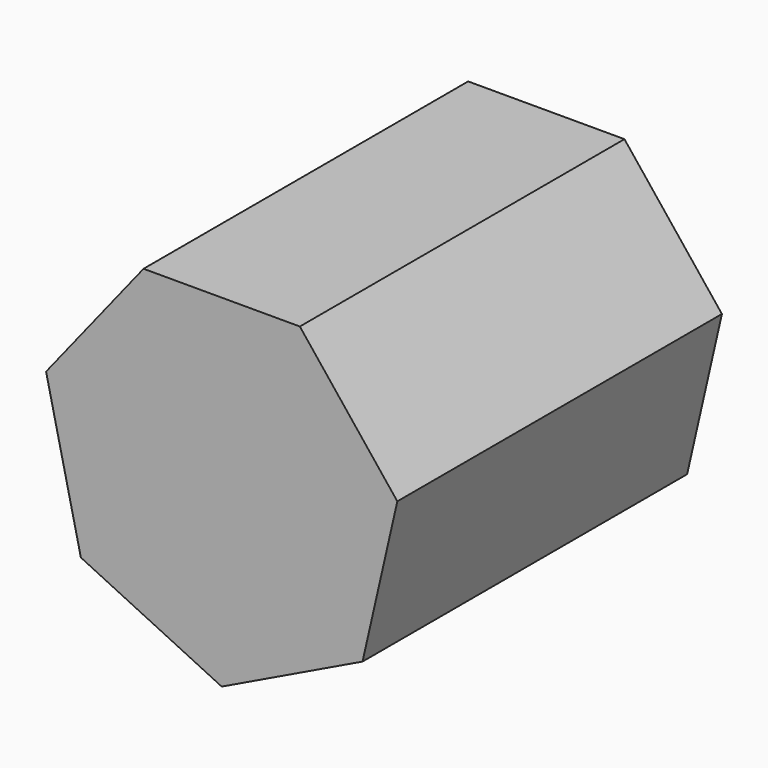
from build123d import *

# Parameters (mm, degrees)
F0_R     = 2.5
F1_DEPTH = 25


with BuildPart() as f1:
    # F0 (on Front) → F1 (new body, symmetric)
    with BuildSketch(Plane.XZ):
        Polygon((9.631492, 20), (-9.631492, 20), (-21.641767, 4.939592), (-17.35535, -13.840429), (0, -22.198325), (17.35535, -13.840429), (21.641767, 4.939592), align=None)
        Circle(F0_R, mode=Mode.SUBTRACT)
        Circle(F0_R)
    extrude(amount=F1_DEPTH, both=True)


solid = f1.part
